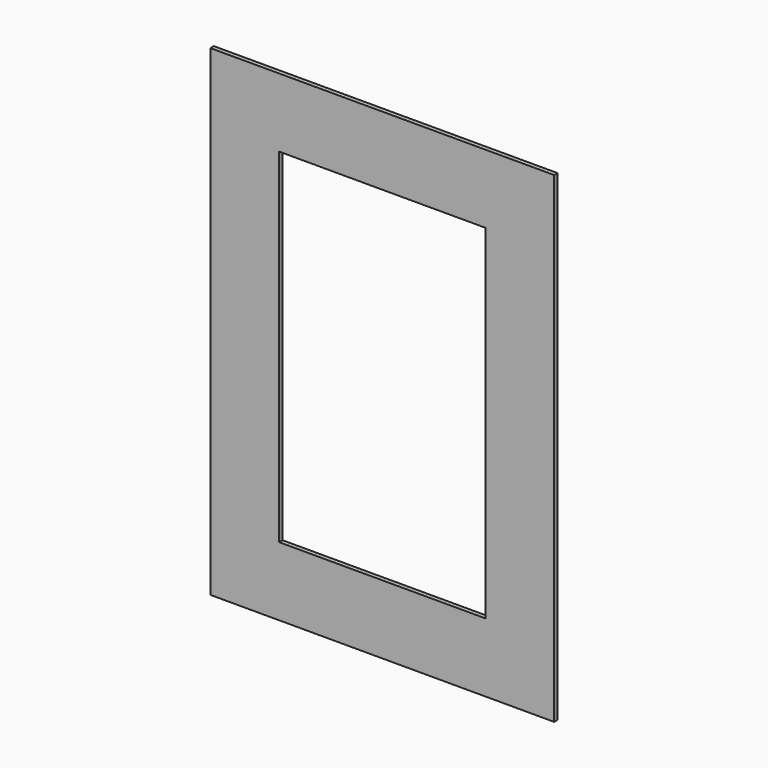
from build123d import *

# Parameters (mm, degrees)
F0_W     = 254
F0_H     = 355.6
F0_W_2   = 152.4
F0_H_2   = 254
F1_DEPTH = 3.175


with BuildPart() as f1:
    # F0 (on Front) → F1 (new body)
    with BuildSketch(Plane.XZ):
        with Locations((-127, 177.8)):
            Rectangle(F0_W, F0_H)
        with Locations((-127, 177.8)):
            Rectangle(F0_W_2, F0_H_2, mode=Mode.SUBTRACT)
    extrude(amount=-F1_DEPTH)


solid = f1.part
